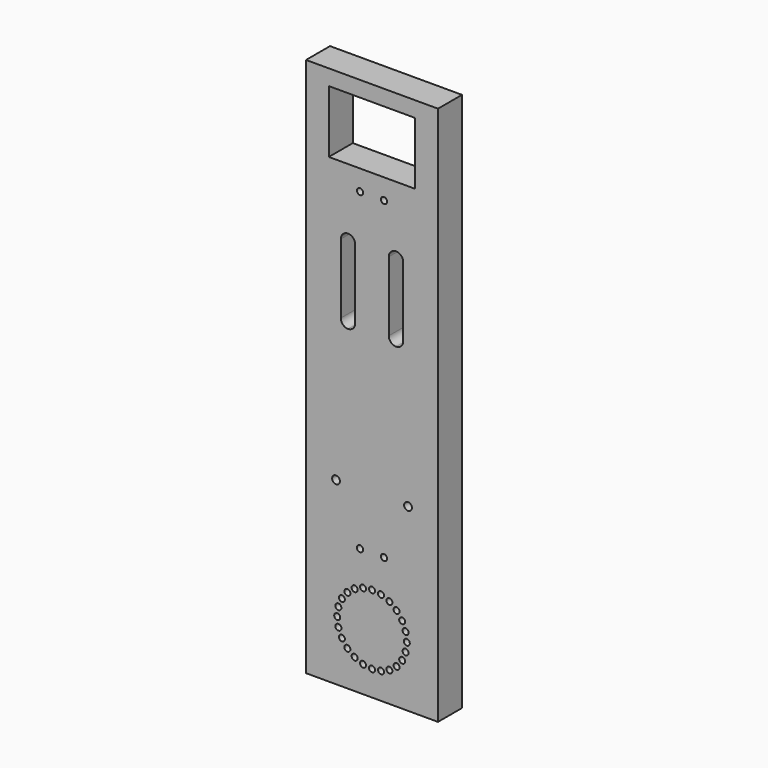
from build123d import *

# Parameters (mm, degrees)
F0_W     = 110
F0_H     = 450
F0_R     = 2.5
F0_R_2   = 2.6
F0_R_3   = 3.25
F0_W_2   = 72
F0_H_2   = 52
F1_DEPTH = 25


with BuildPart() as f1:
    # F0 (on Front) → F1 (new body)
    with BuildSketch(Plane.XZ):
        with Locations((0, 186.095581)):
            Rectangle(F0_W, F0_H)
        with Locations((-28.011849, 3.589829)):
            Circle(F0_R, mode=Mode.SUBTRACT)
        with Locations((-29, 11.095581)):
            Circle(F0_R, mode=Mode.SUBTRACT)
        with Locations((-28.011849, 18.601333)):
            Circle(F0_R, mode=Mode.SUBTRACT)
        with Locations((-14.5, -14.019156)):
            Circle(F0_R, mode=Mode.SUBTRACT)
        with Locations((-25.114737, -3.404419)):
            Circle(F0_R, mode=Mode.SUBTRACT)
        with Locations((-20.506097, -9.410516)):
            Circle(F0_R, mode=Mode.SUBTRACT)
        with Locations((-7.505752, -16.916268)):
            Circle(F0_R, mode=Mode.SUBTRACT)
        with Locations((-25.114737, 25.595581)):
            Circle(F0_R, mode=Mode.SUBTRACT)
        with Locations((-20.506097, 31.601678)):
            Circle(F0_R, mode=Mode.SUBTRACT)
        with Locations((-14.5, 36.210318)):
            Circle(F0_R, mode=Mode.SUBTRACT)
        with Locations((-7.505752, 39.10743)):
            Circle(F0_R, mode=Mode.SUBTRACT)
        with Locations((-10, 67.095581)):
            Circle(F0_R_2, mode=Mode.SUBTRACT)
        with Locations((-30, 111.095581)):
            Circle(F0_R_3, mode=Mode.SUBTRACT)
        with Locations((0, -17.904419)):
            Circle(F0_R, mode=Mode.SUBTRACT)
        with Locations((7.505752, -16.916268)):
            Circle(F0_R, mode=Mode.SUBTRACT)
        with Locations((14.5, -14.019156)):
            Circle(F0_R, mode=Mode.SUBTRACT)
        with Locations((20.506097, -9.410516)):
            Circle(F0_R, mode=Mode.SUBTRACT)
        with Locations((25.114737, -3.404419)):
            Circle(F0_R, mode=Mode.SUBTRACT)
        with Locations((0, 40.095581)):
            Circle(F0_R, mode=Mode.SUBTRACT)
        with Locations((7.505752, 39.10743)):
            Circle(F0_R, mode=Mode.SUBTRACT)
        with Locations((10, 67.095581)):
            Circle(F0_R_2, mode=Mode.SUBTRACT)
        with Locations((14.5, 36.210318)):
            Circle(F0_R, mode=Mode.SUBTRACT)
        with Locations((20.506097, 31.601678)):
            Circle(F0_R, mode=Mode.SUBTRACT)
        with Locations((25.114737, 25.595581)):
            Circle(F0_R, mode=Mode.SUBTRACT)
        with Locations((28.011849, 3.589829)):
            Circle(F0_R, mode=Mode.SUBTRACT)
        with Locations((29, 11.095581)):
            Circle(F0_R, mode=Mode.SUBTRACT)
        with Locations((28.011849, 18.601333)):
            Circle(F0_R, mode=Mode.SUBTRACT)
        with Locations((30, 111.095581)):
            Circle(F0_R_3, mode=Mode.SUBTRACT)
        with BuildLine():
            Line((-26, 231.095581), (-26, 289.095581))
            ThreePointArc((-26, 289.095581), (-24.242641, 293.338222), (-20, 295.095581))
            ThreePointArc((-20, 295.095581), (-15.757359, 293.338222), (-14, 289.095581))
            Line((-14, 289.095581), (-14, 231.095581))
            ThreePointArc((-14, 231.095581), (-15.757359, 226.85294), (-20, 225.095581))
            ThreePointArc((-20, 225.095581), (-24.242641, 226.85294), (-26, 231.095581))
        make_face(mode=Mode.SUBTRACT)
        with Locations((-10, 329.095581)):
            Circle(F0_R_2, mode=Mode.SUBTRACT)
        with BuildLine():
            Line((14, 231.095581), (14, 289.095581))
            ThreePointArc((14, 289.095581), (15.757359, 293.338222), (20, 295.095581))
            ThreePointArc((20, 295.095581), (24.242641, 293.338222), (26, 289.095581))
            Line((26, 289.095581), (26, 231.095581))
            ThreePointArc((26, 231.095581), (24.242641, 226.85294), (20, 225.095581))
            ThreePointArc((20, 225.095581), (15.757359, 226.85294), (14, 231.095581))
        make_face(mode=Mode.SUBTRACT)
        with Locations((10, 329.095581)):
            Circle(F0_R_2, mode=Mode.SUBTRACT)
        with Locations((0, 372.095581)):
            Rectangle(F0_W_2, F0_H_2, mode=Mode.SUBTRACT)
    extrude(amount=F1_DEPTH)


solid = f1.part
